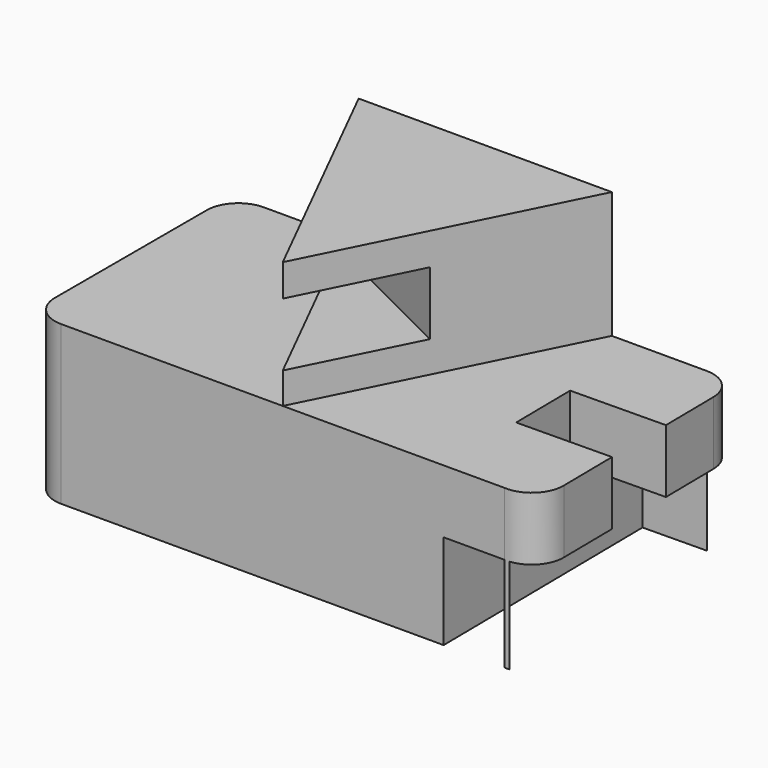
from build123d import *

# Parameters (mm, degrees)
F1_DEPTH = 50.8
F3_DEPTH = 63.5
F4_W     = 50.8
F4_H     = 25.4
F5_DEPTH = 136.301493178
F6_W     = 12.6990998109
F6_H     = 38.1
F6_W_2   = 12.6558531163
F7_DEPTH = 38.1


with BuildPart() as f1:
    # F0 (on Top) → F1 (new body)
    with BuildSketch(Plane.XY):
        with BuildLine():
            Line((-177.8, 0), (0, 0))
            ThreePointArc((0, 0), (9.6159869033, 3.4237488703), (13.6063504562, 12.8187613327))
            Line((13.6063504562, 12.8187613327), (12.6990998109, 89.0133601981))
            ThreePointArc((12.6990998109, 89.0133601981), (8.9266357829, 97.8957099488), (0, 101.5621517573))
            Line((0, 101.5621517573), (-177.8, 101.5621517573))
            ThreePointArc((-177.8, 101.5621517573), (-186.7802196632, 97.842387939), (-190.4999436027, 88.8621517574))
            Line((-190.4999436027, 88.8621517574), (-190.4999436027, 12.6621517574))
            ThreePointArc((-190.4999436027, 12.6621517574), (-186.766864762, 3.7063724593), (-177.8, 0))
        make_face()
    extrude(amount=-F1_DEPTH)

    # F2 (on face) + F1_face1 (on face) → F3 (join)
    with BuildSketch(Plane.XY):
        Polygon((-38.1, 101.5621517573), (-139.7, 101.5621517573), (-88.9, 0), align=None)
    with BuildSketch(Plane(origin=(-88.6706320233, 50.7338080348, -50.8), x_dir=(1, 0, 0), z_dir=(0, 0, -1))):
        with BuildLine():
            ThreePointArc((-89.1293679767, 50.7338080348), (-98.0962327387, 47.0274355755), (-101.8293115794, 38.0716562774))
            Line((-101.8293115794, 38.0716562774), (-101.8293115794, -38.1283437226))
            ThreePointArc((-101.8293115794, -38.1283437226), (-98.1095876399, -47.1085799042), (-89.1293679767, -50.8283437225))
            Line((-89.1293679767, -50.8283437225), (88.6706320233, -50.8283437225))
            ThreePointArc((88.6706320233, -50.8283437225), (97.5972678062, -47.161901914), (101.3697318342, -38.2795521634))
            Line((101.3697318342, -38.2795521634), (102.2769824795, 37.9150467021))
            ThreePointArc((102.2769824795, 37.9150467021), (98.2866189266, 47.3100591645), (88.6706320233, 50.7338080348))
            Line((88.6706320233, 50.7338080348), (-89.1293679767, 50.7338080348))
        make_face()
    extrude(amount=F3_DEPTH, dir=(0, 0, 1))

    # F4 (on face) → F5 (cut, through all)
    with BuildSketch(Plane(origin=(-71.109398148, 35.5679489201, 0), x_dir=(0.4473469078, 0.8943605224, 0), z_dir=(0.8943605224, -0.4473469078, 0))):
        with Locations((-14.3691401044, 37.928833447)):
            Rectangle(F4_W, F4_H)
    extrude(amount=-F5_DEPTH, mode=Mode.SUBTRACT)

    # F6 (on face) → F7 (cut)
    with BuildSketch(Plane(origin=(13.7570332765, 0.1638052763, 0), x_dir=(-0.0119061764, 0.999929119, 0), z_dir=(0.999929119, 0.0119061764, 0))):
        with Locations((95.2054030218, -31.75)):
            Rectangle(F6_W, F6_H)
        with Locations((6.3279265582, -31.75)):
            Rectangle(F6_W_2, F6_H)
        Polygon((64.6785830399, 12.7), (37.2213781047, 12.7), (37.2213781047, -12.7), (12.6558531163, -12.7), (12.6558531163, -50.8), (88.8558531163, -50.8), (88.8558531163, -12.7), (64.6785830399, -12.7), align=None)
    extrude(amount=-F7_DEPTH, mode=Mode.SUBTRACT)


solid = f1.part
